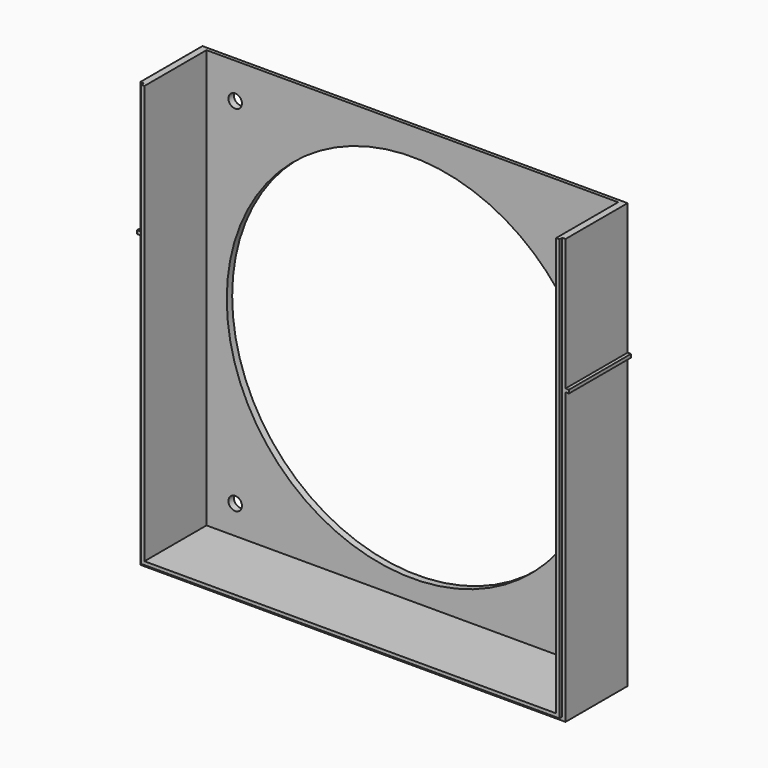
from build123d import *

# Parameters (mm, degrees)
F0_W     = 122
F0_H     = 122
F0_R     = 2
F0_R_2   = 55
F0_H_2   = 1
F1_DEPTH = 2
F0_W_2   = 1
F2_DEPTH = 25
F3_DEPTH = 24
F4_DEPTH = 1
F5_W     = 23
F5_H     = 1
F6_DEPTH = 1
F7_W     = 23
F7_H     = 1
F8_DEPTH = 1


with BuildPart() as f1:
    # F0 (on Front) → F1 (new body)
    with BuildSketch(Plane.XZ):
        Rectangle(F0_W, F0_H)
        with Locations((-52.5, -52.5)):
            Circle(F0_R, mode=Mode.SUBTRACT)
        with Locations((52.5, -52.5)):
            Circle(F0_R, mode=Mode.SUBTRACT)
        with Locations((-52.5, 52.5)):
            Circle(F0_R, mode=Mode.SUBTRACT)
        Circle(F0_R_2, mode=Mode.SUBTRACT)
        with Locations((52.5, 52.5)):
            Circle(F0_R, mode=Mode.SUBTRACT)
        with Locations((0, 61.5)):
            Rectangle(F0_W, F0_H_2)
        with Locations((0, 62.5)):
            Rectangle(F0_W, F0_H_2)
    extrude(amount=F1_DEPTH)

    # F0 (on Front) → F2 (join)
    with BuildSketch(Plane.XZ):
        Polygon((61, 61), (61, -61), (-61, -61), (-61, 61), (-61, 62), (-62, 62), (-62, -62), (62, -62), (62, 62), (61, 62), align=None)
        with Locations((61.5, 62.5)):
            Rectangle(F0_W_2, F0_H_2)
        with Locations((-61.5, 62.5)):
            Rectangle(F0_W_2, F0_H_2)
    extrude(amount=F2_DEPTH)

    # F0 (on Front) → F3 (join)
    with BuildSketch(Plane.XZ):
        Polygon((62, 63), (62, 62), (62, -62), (-62, -62), (-62, 62), (-62, 63), (-63, 63), (-63, -63), (63, -63), (63, 63), align=None)
    extrude(amount=F3_DEPTH)

    # F0 (on Front) → F4 (cut)
    with BuildSketch(Plane.XZ):
        Polygon((62, 63), (62, 62), (62, -62), (-62, -62), (-62, 62), (-62, 63), (-63, 63), (-63, -63), (63, -63), (63, 63), align=None)
        with Locations((61.5, 62.5)):
            Rectangle(F0_W_2, F0_H_2)
        with Locations((0, 62.5)):
            Rectangle(F0_W, F0_H_2)
        with Locations((-61.5, 62.5)):
            Rectangle(F0_W_2, F0_H_2)
    extrude(amount=F4_DEPTH, mode=Mode.SUBTRACT)

    # F5 (on face) → F6 (join)
    with BuildSketch(Plane(origin=(-63, 0, 0), x_dir=(0, -1, 0), z_dir=(-1, 0, 0))):
        with Locations((12.5, 23.5)):
            Rectangle(F5_W, F5_H)
    extrude(amount=F6_DEPTH)

    # F7 (on face) → F8 (join)
    with BuildSketch(Plane.YZ.offset(63)):
        with Locations((-12.5, 23.5)):
            Rectangle(F7_W, F7_H)
    extrude(amount=F8_DEPTH)


solid = f1.part
